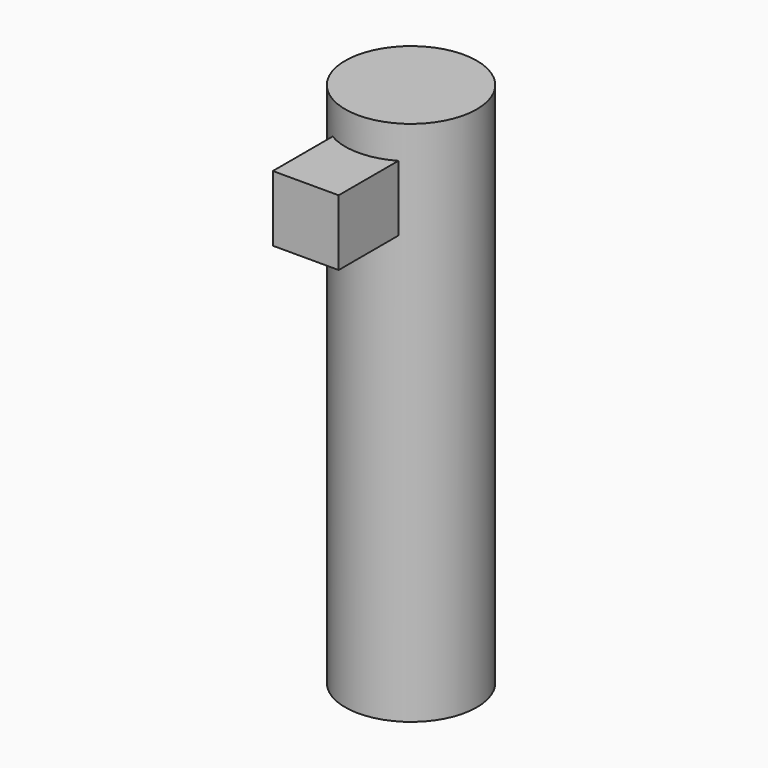
from build123d import *

# Parameters (mm, degrees)
F0_R     = 12.7
F1_DEPTH = 101.6
F3_W     = 12.7
F3_H     = 12.7


with BuildPart() as f1:
    # F0 (on Top) → F1 (new body)
    with BuildSketch(Plane.XY):
        Circle(F0_R)
    extrude(amount=F1_DEPTH)

    # F3 (on offset) → F4 (join, up to the next surface of F1)
    with BuildSketch(Plane.XZ.offset(25.4)):
        with Locations((0, 88.9)):
            Rectangle(F3_W, F3_H)
    extrude(until=Until.NEXT, dir=(0, 1, 0))


solid = f1.part
